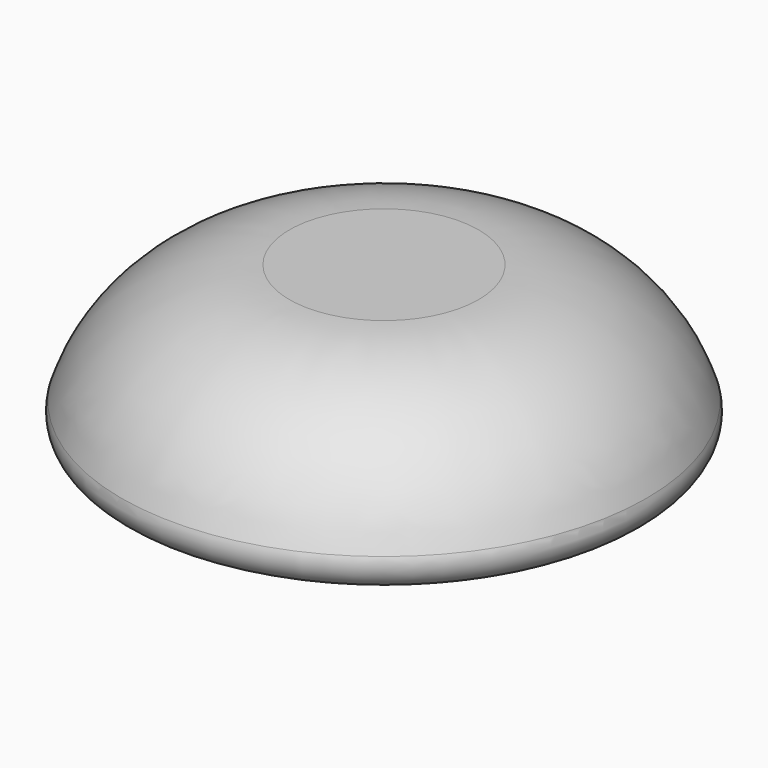
from build123d import *


with BuildPart() as f1:
    # F0 (on Front) → F1 (revolve)
    with BuildSketch(Plane.XZ):
        with BuildLine():
            Line((8, 0), (0, 0))
            Line((0, 0), (0, -13.07639))
            Line((0, -13.07639), (17.7745, -13.07639))
            Line((17.7745, -13.07639), (20.121794, -13.07639))
            ThreePointArc((20.121794, -13.07639), (21.90788, -12.158716), (22.201882, -10.172315))
            ThreePointArc((22.201882, -10.172315), (16.73455, -2.805426), (8, 0))
        make_face()
        with BuildLine():
            Line((17.7745, -13.07639), (0, -13.07639))
            Line((0, -13.07639), (0, -14.829579))
            Line((0, -14.829579), (13.718157, -14.829579))
            ThreePointArc((13.718157, -14.829579), (15.776196, -14.022088), (17.7745, -13.07639))
        make_face()
        with BuildLine():
            Line((13.718157, -14.829579), (0, -14.829579))
            Line((0, -14.829579), (0, -16.556621))
            ThreePointArc((0, -16.556621), (6.952095, -16.431946), (13.718157, -14.829579))
        make_face()
    revolve(axis=Axis((0, 0, -10.591229), (0, 0, 1)))


solid = f1.part
